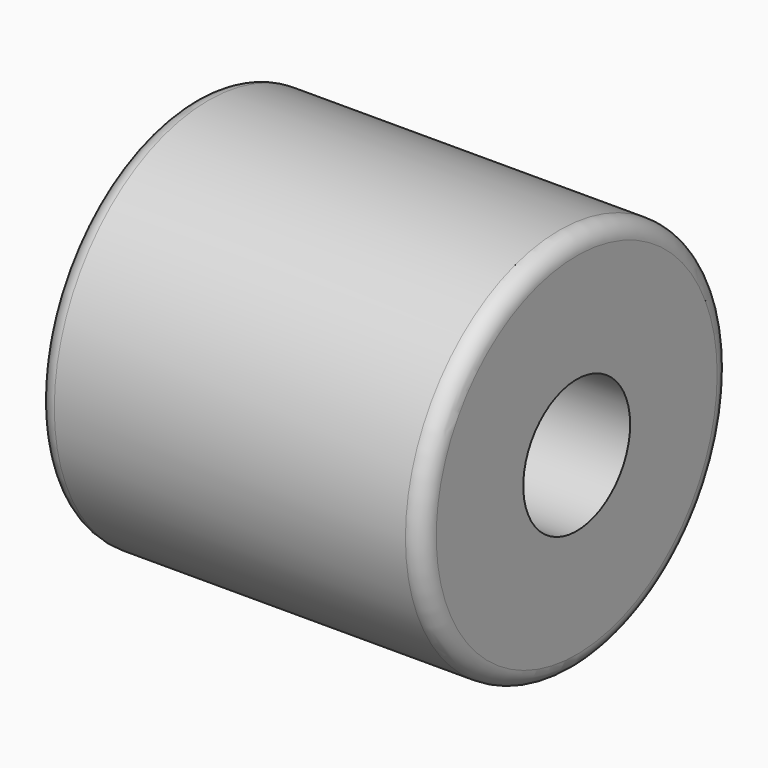
from build123d import *

# Parameters (mm, degrees)
F0_R     = 14.2875
F0_R_2   = 4.953
F1_DEPTH = 14.2875
F2_R     = 1.27


with BuildPart() as f1:
    # F0 (on Right) → F1 (new body, symmetric)
    with BuildSketch(Plane.YZ):
        Circle(F0_R)
        Circle(F0_R_2, mode=Mode.SUBTRACT)
    extrude(amount=F1_DEPTH, both=True)

    # F2
    f2_edges = [f1.edges().sort_by_distance(p)[0] for p in [
        (14.2875, -14.2875, 0),
        (-14.2875, -14.2875, 0),
    ]]
    fillet(f2_edges, radius=F2_R)


solid = f1.part
